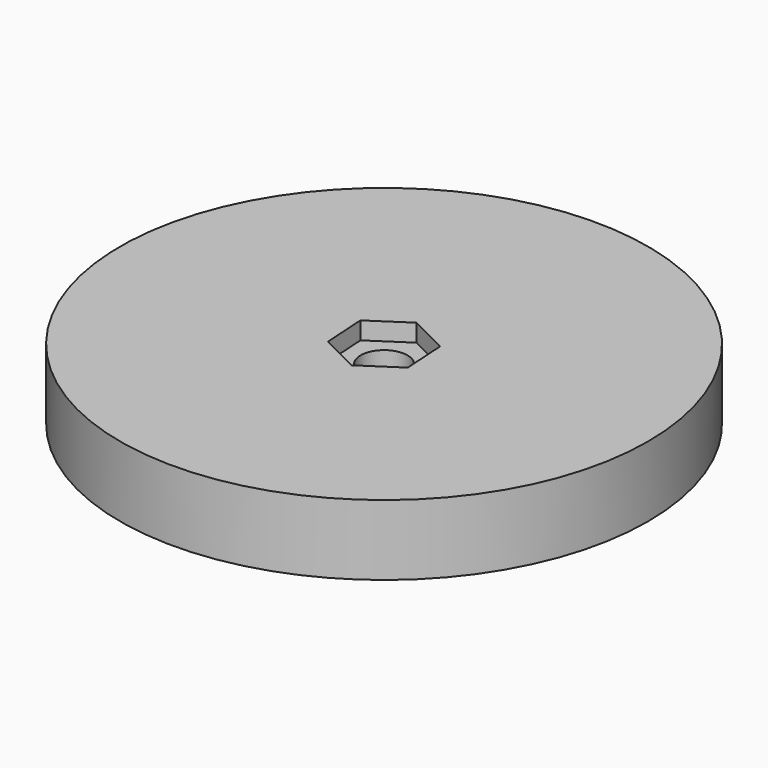
from build123d import *

# Parameters (mm, degrees)
F0_R     = 45
F0_R_2   = 4
F1_DEPTH = 12
F2_R     = 4
F3_DEPTH = 3


with BuildPart() as f1:
    # F0 (on Top) → F1 (new body)
    with BuildSketch(Plane.XY):
        Circle(F0_R)
        Circle(F0_R_2, mode=Mode.SUBTRACT)
    extrude(amount=F1_DEPTH)

    # F2 (on face) → F3 (cut)
    with BuildSketch(Plane.XY.offset(12)):
        Polygon((0.459643, -7.491466), (6.717621, -3.347671), (6.257979, 4.143795), (-0.459643, 7.491466), (-6.717621, 3.347671), (-6.257979, -4.143795), align=None)
        Circle(F2_R, mode=Mode.SUBTRACT)
    extrude(amount=-F3_DEPTH, mode=Mode.SUBTRACT)


solid = f1.part
